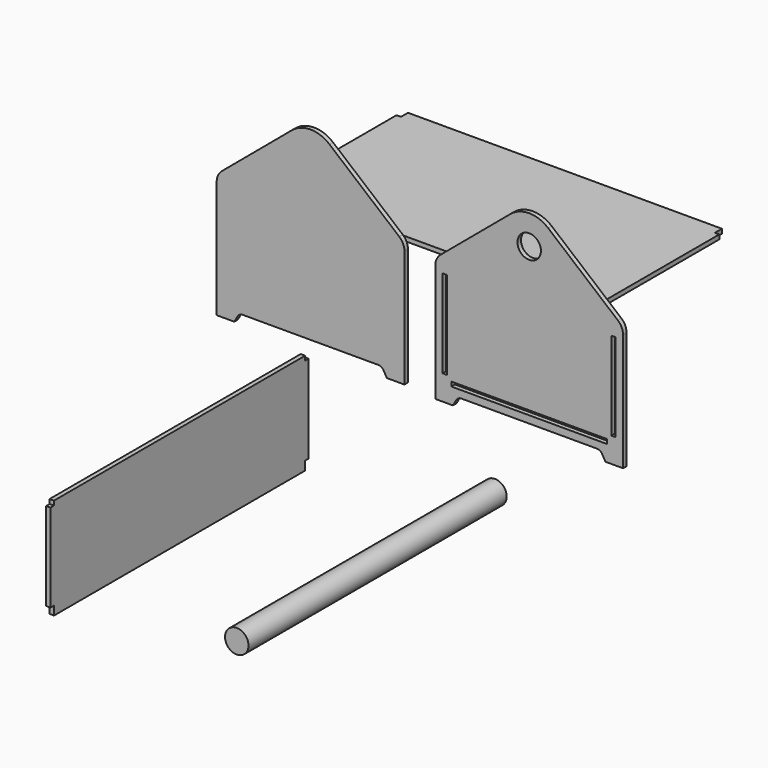
from build123d import *

# Parameters (mm, degrees)
F0_W     = 3
F0_H     = 60
F0_W_2   = 106
F0_H_2   = 3
F0_R     = 8
F1_DEPTH = 3
F3_DEPTH = 3
F5_DEPTH = 3
F6_R     = 8
F7_DEPTH = 220
F9_DEPTH = 3


with BuildPart() as f1:
    # F0 (on Front) → F1 (new body)
    with BuildSketch(Plane.XZ):
        with BuildLine():
            Line((0, 80), (0, 0))
            Line((0, 0), (12, 0))
            Line((12, 0), (14.309401, 4))
            ThreePointArc((14.309401, 4), (15.773503, 5.464102), (17.773503, 6))
            Line((17.773503, 6), (110.226497, 6))
            ThreePointArc((110.226497, 6), (112.226497, 5.464102), (113.690599, 4))
            Line((113.690599, 4), (116, 0))
            Line((116, 0), (128, 0))
            Line((128, 0), (128, 80))
            ThreePointArc((128, 80), (127.063078, 84.226183), (124.427876, 87.660444))
            Line((124.427876, 87.660444), (76.855752, 127.578196))
            ThreePointArc((76.855752, 127.578196), (64, 132.257307), (51.144248, 127.578196))
            Line((51.144248, 127.578196), (3.572124, 87.660444))
            ThreePointArc((3.572124, 87.660444), (0.936922, 84.226183), (0, 80))
        make_face()
        with Locations((6.5, 47)):
            Rectangle(F0_W, F0_H, mode=Mode.SUBTRACT)
        with Locations((64, 12.5)):
            Rectangle(F0_W_2, F0_H_2, mode=Mode.SUBTRACT)
        with Locations((121.5, 47)):
            Rectangle(F0_W, F0_H, mode=Mode.SUBTRACT)
        with Locations((64, 112.257307)):
            Circle(F0_R, mode=Mode.SUBTRACT)
    extrude(amount=F1_DEPTH)


with BuildPart() as f3:
    # F2 (on Top) → F3 (new body)
    with BuildSketch(Plane.XY):
        Polygon((0.164736, 241.013441), (-213.835264, 241.013441), (-213.835264, 235.013441), (-216.835264, 235.013441), (-216.835264, 135.008938), (-213.835264, 135.008938), (-213.602845, 129.013441), (0.164736, 129.013441), (0.164736, 135.008938), (3.164736, 135.008938), (3.164736, 235.013441), (0.164736, 235.013441), align=None)
    extrude(amount=F3_DEPTH)


with BuildPart() as f5:
    # F4 (on Front) → F5 (new body)
    with BuildSketch(Plane.XZ):
        with BuildLine():
            Line((-149.038229, 81.775004), (-149.038229, 1.775004))
            Line((-149.038229, 1.775004), (-137.038229, 1.775004))
            Line((-137.038229, 1.775004), (-134.728828, 5.775004))
            ThreePointArc((-134.728828, 5.775004), (-133.264726, 7.239105), (-131.264726, 7.775004))
            Line((-131.264726, 7.775004), (-38.811732, 7.775004))
            ThreePointArc((-38.811732, 7.775004), (-36.811732, 7.239105), (-35.34763, 5.775004))
            Line((-35.34763, 5.775004), (-33.038229, 1.775004))
            Line((-33.038229, 1.775004), (-21.038229, 1.775004))
            Line((-21.038229, 1.775004), (-21.038229, 81.775004))
            ThreePointArc((-21.038229, 81.775004), (-21.975151, 86.001186), (-24.610353, 89.435448))
            Line((-24.610353, 89.435448), (-72.182477, 129.3532))
            ThreePointArc((-72.182477, 129.3532), (-85.038229, 134.032311), (-97.893981, 129.3532))
            Line((-97.893981, 129.3532), (-145.466105, 89.435448))
            ThreePointArc((-145.466105, 89.435448), (-148.101307, 86.001186), (-149.038229, 81.775004))
        make_face()
    extrude(amount=F5_DEPTH)


with BuildPart() as f7:
    # F6 (on Front) → F7 (new body)
    with BuildSketch(Plane.XZ):
        with Locations((38.254205, -44.755071)):
            Circle(F6_R)
    extrude(amount=F7_DEPTH)


with BuildPart() as f9:
    # F8 (on Right) → F9 (new body)
    with BuildSketch(Plane.YZ):
        Polygon((-117.649087, 70.55839), (-117.649087, 73.55839), (-331.649087, 73.55839), (-331.649087, 70.55839), (-334.649087, 70.55839), (-334.649087, 10.55839), (-331.649087, 10.55839), (-331.601357, 4.55858), (-117.582071, 4.55858), (-117.649087, 10.558205), (-114.649087, 10.558205), (-114.649087, 70.55839), align=None)
    extrude(amount=F9_DEPTH)


solid = Compound([f1.part, f3.part, f5.part, f7.part, f9.part])
